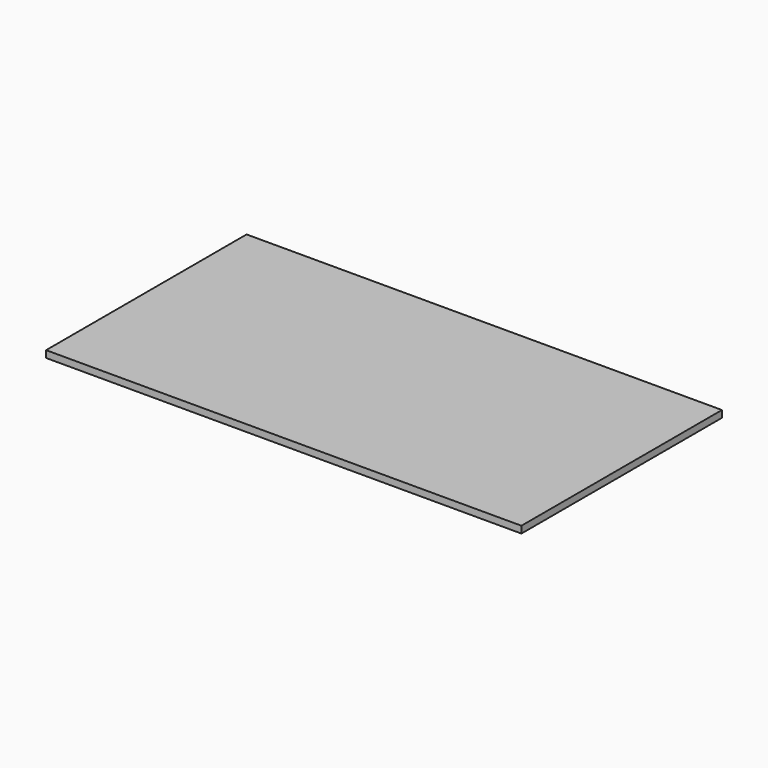
from build123d import *

# Parameters (mm, degrees)
SKETCH_W  = 110
SKETCH_H  = 58
PAD_DEPTH = 1.6


with BuildPart() as part:
    # Sketch → Pad (new body)
    with BuildSketch(Plane.XY):
        Rectangle(SKETCH_W, SKETCH_H)
    extrude(amount=PAD_DEPTH)


solid = part.part
